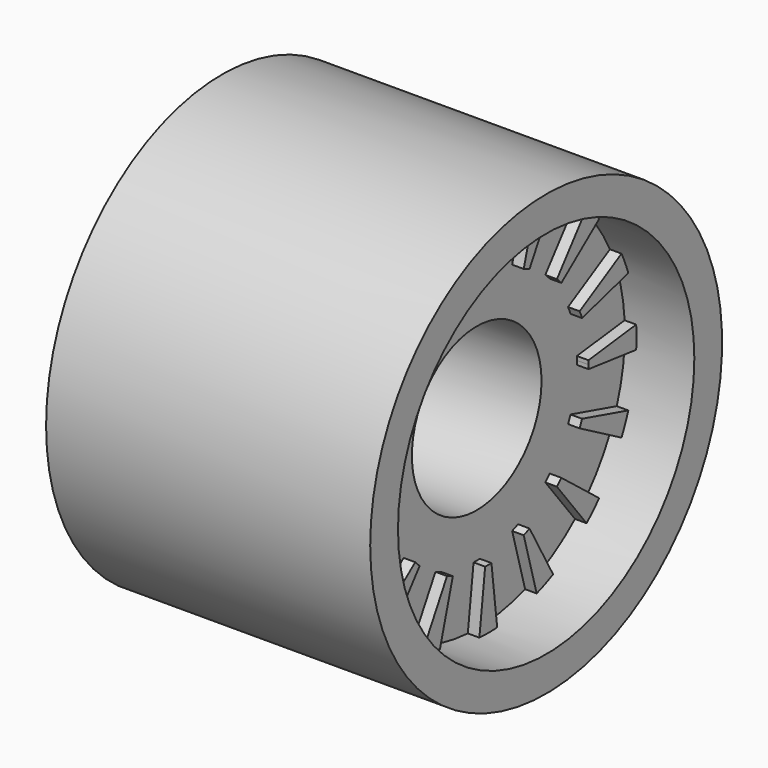
from build123d import *

# Parameters (mm, degrees)
F0_R     = 8
F1_DEPTH = 14
F2_R     = 9.5
F2_R_2   = 8
F3_DEPTH = 14
F4_DEPTH = 3
F5_DEPTH = 6.2
F6_R     = 3.5
F7_DEPTH = 11.001
F9_DEPTH = 0.5


with BuildPart() as f1:
    # F0 (on Right) → F1 (new body)
    with BuildSketch(Plane.YZ):
        Circle(F0_R)
    extrude(amount=F1_DEPTH)

    # F4 (cut): a face of the model
    f4_faces = [f1.faces().sort_by_distance(p)[0] for p in [
        (14, 0, 0),
    ]]
    extrude(f4_faces, amount=-F4_DEPTH, mode=Mode.SUBTRACT)

    # F5 (cut): a face of the model
    f5_faces = [f1.faces().sort_by_distance(p)[0] for p in [
        (0, 0, 0),
    ]]
    extrude(f5_faces, amount=-F5_DEPTH, mode=Mode.SUBTRACT)

    # F6 (on face) → F7 (cut, through all)
    with BuildSketch(Plane.YZ.offset(11)):
        Circle(F6_R)
    extrude(amount=-F7_DEPTH, mode=Mode.SUBTRACT)



with BuildPart() as f3:
    # F2 (on face) → F3 (new body)
    with BuildSketch(Plane(origin=(0, 0, 0), x_dir=(0, -1, 0), z_dir=(-1, 0, 0))):
        Circle(F2_R)
        Circle(F2_R_2, mode=Mode.SUBTRACT)
    extrude(amount=-F3_DEPTH)


with BuildPart() as f1_1:
    add(f1.part)

    add(f3.part)  # F9 merges F3
    # F8 (on face) → F9 (join)
    with BuildSketch(Plane.YZ.offset(11)):
        with BuildLine():
            ThreePointArc((-3.7052864958, -3.9455150793), (-3.8272860657, -3.8272860657), (-3.9455150793, -3.7052864958))
            Line((-3.9455150793, -3.7052864958), (-5.9861921895, -5.3071181511))
            ThreePointArc((-5.9861921895, -5.3071181511), (-5.6568542495, -5.6568542495), (-5.3071181511, -5.9861921895))
            Line((-5.3071181511, -5.9861921895), (-3.7052864958, -3.9455150793))
        make_face()
        with BuildLine():
            ThreePointArc((-4.9331216086, -2.2272288729), (-5.0005902294, -2.0713122929), (-5.0631323811, -1.9133551026))
            Line((-5.0631323811, -1.9133551026), (-7.5614666316, -2.6123212626))
            ThreePointArc((-7.5614666316, -2.6123212626), (-7.3910362601, -3.0614674589), (-7.1939544103, -3.4995742515))
            Line((-7.1939544103, -3.4995742515), (-4.9331216086, -2.2272288729))
        make_face()
        with BuildLine():
            ThreePointArc((-5.4099336753, -0.1698672604), (-5.4125998612, 0), (-5.4099336753, 0.1698672604))
            Line((-5.4099336753, 0.1698672604), (-7.9855763239, 0.4801778575))
            ThreePointArc((-7.9855763239, 0.4801778575), (-8, 0), (-7.9855763239, -0.4801778575))
            Line((-7.9855763239, -0.4801778575), (-5.4099336753, -0.1698672604))
        make_face()
        with BuildLine():
            ThreePointArc((-5.0631323811, 1.9133551026), (-5.0005902294, 2.0713122929), (-4.9331216086, 2.2272288729))
            Line((-4.9331216086, 2.2272288729), (-7.1939544103, 3.4995742515))
            ThreePointArc((-7.1939544103, 3.4995742515), (-7.3910362601, 3.0614674589), (-7.5614666316, 2.6123212626))
            Line((-7.5614666316, 2.6123212626), (-5.0631323811, 1.9133551026))
        make_face()
        with BuildLine():
            ThreePointArc((-3.9455150793, 3.7052864958), (-3.8272860657, 3.8272860657), (-3.7052864958, 3.9455150793))
            Line((-3.7052864958, 3.9455150793), (-5.3071181511, 5.9861921895))
            ThreePointArc((-5.3071181511, 5.9861921895), (-5.6568542495, 5.6568542495), (-5.9861921895, 5.3071181511))
            Line((-5.9861921895, 5.3071181511), (-3.9455150793, 3.7052864958))
        make_face()
        with BuildLine():
            ThreePointArc((-2.2272288729, 4.9331216086), (-2.0713122929, 5.0005902294), (-1.9133551026, 5.0631323811))
            Line((-1.9133551026, 5.0631323811), (-2.6123212626, 7.5614666316))
            ThreePointArc((-2.6123212626, 7.5614666316), (-3.0614674589, 7.3910362601), (-3.4995742515, 7.1939544103))
            Line((-3.4995742515, 7.1939544103), (-2.2272288729, 4.9331216086))
        make_face()
        with BuildLine():
            ThreePointArc((-0.1698672604, 5.4099336753), (0, 5.4125998612), (0.1698672604, 5.4099336753))
            Line((0.1698672604, 5.4099336753), (0.4801778575, 7.9855763239))
            ThreePointArc((0.4801778575, 7.9855763239), (0, 8), (-0.4801778575, 7.9855763239))
            Line((-0.4801778575, 7.9855763239), (-0.1698672604, 5.4099336753))
        make_face()
        with BuildLine():
            Line((2.6123212626, 7.5614666316), (1.9133551026, 5.0631323811))
            ThreePointArc((1.9133551026, 5.0631323811), (2.0713122929, 5.0005902294), (2.2272288729, 4.9331216086))
            Line((2.2272288729, 4.9331216086), (3.4995742515, 7.1939544103))
            ThreePointArc((3.4995742515, 7.1939544103), (3.0614674589, 7.3910362601), (2.6123212626, 7.5614666316))
        make_face()
        with BuildLine():
            Line((5.3071181511, 5.9861921895), (3.7052864958, 3.9455150793))
            ThreePointArc((3.7052864958, 3.9455150793), (3.8272860657, 3.8272860657), (3.9455150793, 3.7052864958))
            Line((3.9455150793, 3.7052864958), (5.9861921895, 5.3071181511))
            ThreePointArc((5.9861921895, 5.3071181511), (5.6568542495, 5.6568542495), (5.3071181511, 5.9861921895))
        make_face()
        with BuildLine():
            Line((7.1939544103, 3.4995742515), (4.9331216086, 2.2272288729))
            ThreePointArc((4.9331216086, 2.2272288729), (5.0005902294, 2.0713122929), (5.0631323811, 1.9133551026))
            Line((5.0631323811, 1.9133551026), (7.5614666316, 2.6123212626))
            ThreePointArc((7.5614666316, 2.6123212626), (7.3910362601, 3.0614674589), (7.1939544103, 3.4995742515))
        make_face()
        with BuildLine():
            Line((7.9855763239, 0.4801778575), (5.4099336753, 0.1698672604))
            ThreePointArc((5.4099336753, 0.1698672604), (5.4119332737, 0.0849440915), (5.4125998612, 0))
            ThreePointArc((5.4125998612, 0), (5.4119332737, -0.0849440915), (5.4099336753, -0.1698672604))
            Line((5.4099336753, -0.1698672604), (7.9855763239, -0.4801778575))
            ThreePointArc((7.9855763239, -0.4801778575), (7.9963932679, -0.2401972196), (8, 0))
            ThreePointArc((8, 0), (7.9963932679, 0.2401972196), (7.9855763239, 0.4801778575))
        make_face()
        with BuildLine():
            Line((7.5614666316, -2.6123212626), (5.0631323811, -1.9133551026))
            ThreePointArc((5.0631323811, -1.9133551026), (5.0005902294, -2.0713122929), (4.9331216086, -2.2272288729))
            Line((4.9331216086, -2.2272288729), (7.1939544103, -3.4995742515))
            ThreePointArc((7.1939544103, -3.4995742515), (7.3910362601, -3.0614674589), (7.5614666316, -2.6123212626))
        make_face()
        with BuildLine():
            Line((5.9861921895, -5.3071181511), (3.9455150793, -3.7052864958))
            ThreePointArc((3.9455150793, -3.7052864958), (3.8272860657, -3.8272860657), (3.7052864958, -3.9455150793))
            Line((3.7052864958, -3.9455150793), (5.3071181511, -5.9861921895))
            ThreePointArc((5.3071181511, -5.9861921895), (5.6568542495, -5.6568542495), (5.9861921895, -5.3071181511))
        make_face()
        with BuildLine():
            Line((3.4995742515, -7.1939544103), (2.2272288729, -4.9331216086))
            ThreePointArc((2.2272288729, -4.9331216086), (2.0713122929, -5.0005902294), (1.9133551026, -5.0631323811))
            Line((1.9133551026, -5.0631323811), (2.6123212626, -7.5614666316))
            ThreePointArc((2.6123212626, -7.5614666316), (3.0614674589, -7.3910362601), (3.4995742515, -7.1939544103))
        make_face()
        with BuildLine():
            ThreePointArc((0.1698672604, -5.4099336753), (0, -5.4125998612), (-0.1698672604, -5.4099336753))
            Line((-0.1698672604, -5.4099336753), (-0.4801778575, -7.9855763239))
            ThreePointArc((-0.4801778575, -7.9855763239), (0, -8), (0.4801778575, -7.9855763239))
            Line((0.4801778575, -7.9855763239), (0.1698672604, -5.4099336753))
        make_face()
        with BuildLine():
            ThreePointArc((-1.9133551026, -5.0631323811), (-2.0713122929, -5.0005902294), (-2.2272288729, -4.9331216086))
            Line((-2.2272288729, -4.9331216086), (-3.4995742515, -7.1939544103))
            ThreePointArc((-3.4995742515, -7.1939544103), (-3.0614674589, -7.3910362601), (-2.6123212626, -7.5614666316))
            Line((-2.6123212626, -7.5614666316), (-1.9133551026, -5.0631323811))
        make_face()
    extrude(amount=F9_DEPTH)


solid = f1_1.part
